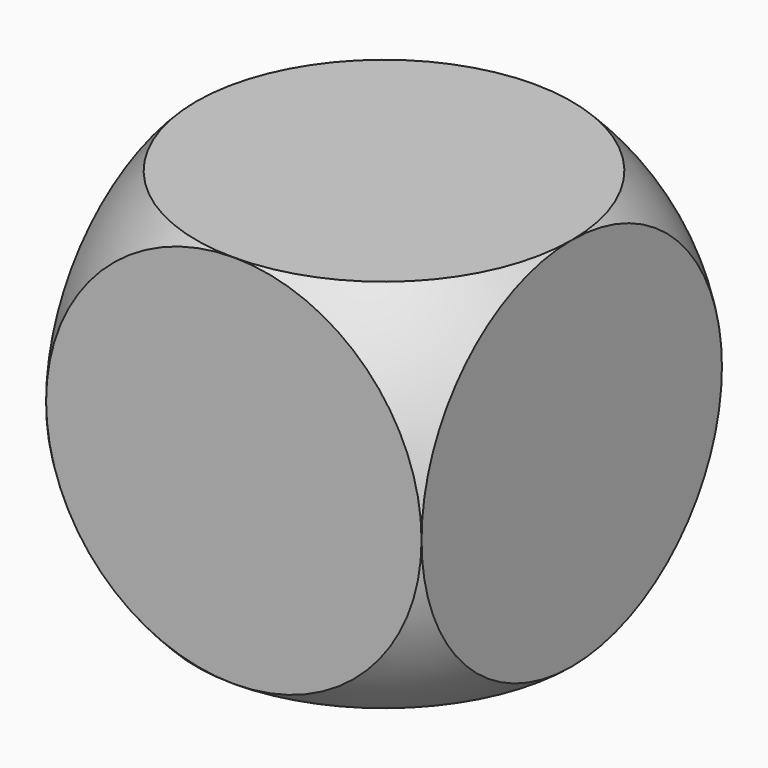
from build123d import *

# Parameters (mm, degrees)
F0_W     = 18
F0_H     = 18
F1_DEPTH = 9


with BuildPart() as f1:
    # F0 (on Front) → F1 (new body, symmetric)
    with BuildSketch(Plane.XZ):
        Rectangle(F0_W, F0_H)
    extrude(amount=F1_DEPTH, both=True)


with BuildPart() as f3:
    # F2 (on Front) → F3 (revolve)
    with BuildSketch(Plane.XZ):
        with BuildLine():
            Line((-12.727922, 0), (12.727922, 0))
            ThreePointArc((12.727922, 0), (0, 12.727922), (-12.727922, 0))
        make_face()
    revolve(axis=Axis((0.310661, 0, 0), (1, 0, 0)))


with BuildPart() as f1_1:
    add(f1.part)

    # F4: intersect F3
    add(f3.part, mode=Mode.INTERSECT)


solid = f1_1.part
